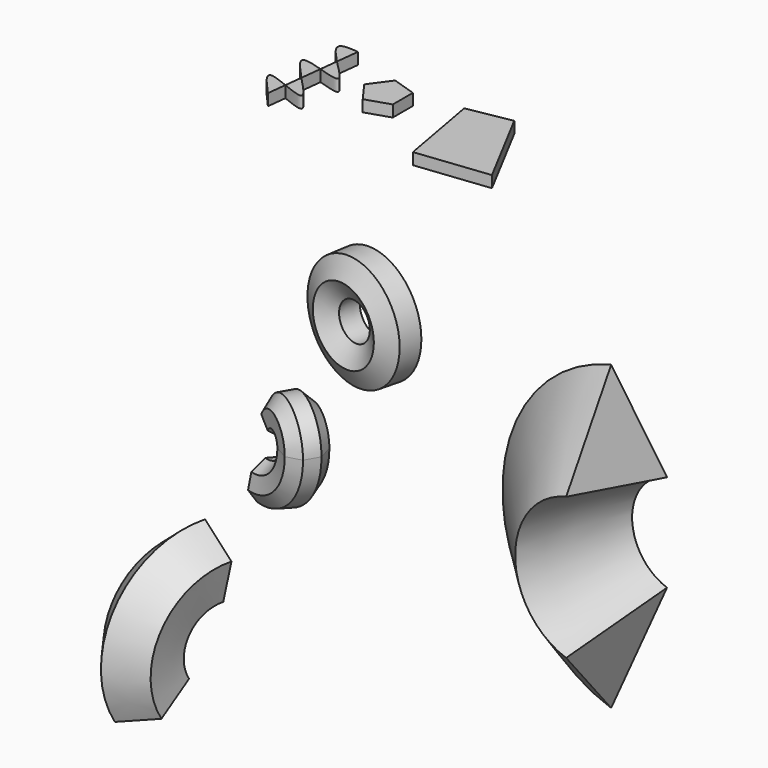
from build123d import *

# Parameters (mm, degrees)
F4_ANGLE       = 90
F5_R           = 14.6358419548
F6_ANGLE       = 90
F4_FACE_R      = 14.6358419548
F7_ANGLE       = 150
F9_ANGLE_BACK  = 75
F9_ANGLE       = 150
F11_ANGLE_BACK = 90
F11_ANGLE      = 120
F14_DEPTH      = 30


with BuildPart() as f2:
    # F0 (on Top) → F2 (revolve)
    with BuildSketch(Plane.XY):
        Polygon((41.1230984632, -38.3263548902), (53.753146201, 16.4504705063), (12.6300477378, 54.7768253966), (-41.1230984632, 38.3263548902), (-53.753146201, -16.4504705063), (-12.6300477378, -54.7768253966), align=None)
    revolve(axis=Axis((-101.0606586933, -4.8696771264, 0), (0.2003221404, 0.9797300853, 0)))


with BuildPart() as f4:
    # F3 (on Top) → F4 (revolve)
    with BuildSketch(Plane.XY):
        Polygon((197.4797659549, -547.2550534879), (217.4312359658, -512.1937847461), (206.7469948207, -473.2939041224), (171.6857260789, -453.3424341116), (132.7858454552, -464.0266752566), (112.8343754444, -499.0879439985), (123.5186165894, -537.9878246221), (158.5798853313, -557.939294633), align=None)
    revolve(axis=Axis((33.4474323317, -502.6533901691, 0), (0.3127058951, 0.9498500004, 0)), revolution_arc=F4_ANGLE)

    # F5 (on face) → F6 (revolve, cut)
    with BuildSketch(Plane.XY):
        with Locations((161.7156416178, -498.3035624027)):
            Circle(F5_R)
    revolve(axis=Axis((2.8462186456, -532.4731618166, 0), (0.3901119624, 0.9207674282, 0)), revolution_arc=F6_ANGLE, mode=Mode.SUBTRACT)

    # F4_face (on face) → F7 (revolve)
    with BuildSketch(Plane(origin=(165.1328057051, -505.6408643723, 0), x_dir=(1, 0, 0), z_dir=(0, 0, 1))):
        Polygon((-6.5529203738, -52.2984302607), (32.3469602499, -41.6141891156), (52.2984302607, -6.5529203738), (41.6141891156, 32.3469602499), (6.5529203738, 52.2984302607), (-32.3469602499, 41.6141891156), (-52.2984302607, 6.5529203738), (-41.6141891156, -32.3469602499), align=None)
        with Locations((-3.4171640873, 7.3373019695)):
            Circle(F4_FACE_R, mode=Mode.SUBTRACT)
    revolve(axis=Axis((122.8101104498, -481.5573096275, 0), (-0.4945770036, -0.8691338145, 0)), revolution_arc=F7_ANGLE)


with BuildPart() as f9:
    # F8 (on Top) → F9 (revolve)
    with BuildSketch(Plane.XY, mode=Mode.PRIVATE) as f9_sk:
        Polygon((794.2860190573, -604.9314438156), (875.3789599237, -326.8226088234), (593.9831733704, -395.6484794617), align=None)
    revolve(f9_sk.sketch.rotate(Axis((999.4233250618, -417.9402664304, 0), (0.0747248131, 0.9972041929, 0)), -F9_ANGLE_BACK), axis=Axis((999.4233250618, -417.9402664304, 0), (0.0747248131, 0.9972041929, 0)), revolution_arc=F9_ANGLE)


with BuildPart() as f11:
    # F10 (on Top) → F11 (revolve)
    with BuildSketch(Plane.XY, mode=Mode.PRIVATE) as f11_sk:
        Polygon((553.4437894821, -1486.7327075837), (553.4437894821, -1379.1132110717), (451.091566044, -1345.8569577235), (387.8344131352, -1432.9229593277), (451.091566044, -1519.9889609319), align=None)
    revolve(f11_sk.sketch.rotate(Axis((527.5831520557, -1269.2239284515, 0), (0.965925812, -0.2588190985, 0)), -F11_ANGLE_BACK), axis=Axis((527.5831520557, -1269.2239284515, 0), (0.965925812, -0.2588190985, 0)), revolution_arc=F11_ANGLE)


with BuildPart() as f14:
    # F13 (on offset) → F14 (new body)
    with BuildSketch(Plane.XY.offset(500)):
        with BuildLine():
            Line((-217.7661401576, -33.5455555877), (-222.981637236, -78.9262926005))
            add(Edge.make_bspline(
                [(-222.981637236, -78.9262926005), (-196.5505352641, -89.4817884221), (-141.6766181094, -111.7122441999), (-192.3299561226, -60.2015441708), (-217.7661401576, -33.5455555877)],
                knots=[0.2218975102, 0.2218975102, 0.2218975102, 0.2218975102, 0.3112566363, 0.4047462295, 0.4047462295, 0.4047462295, 0.4047462295], degree=3))
        make_face()
    extrude(amount=F14_DEPTH)


with BuildPart() as f14b:
    # F13 (on offset) → F14, piece 2 (new body)
    with BuildSketch(Plane.XY.offset(500)):
        with BuildLine():
            add(Edge.make_bspline(
                [(-217.7661401576, -33.5455555877), (-243.8043538988, -6.2586666717), (-290.1264285124, 43.8113513039), (-235.981118483, 28.1504020808), (-211.5425076347, 20.6071026421)],
                knots=[0.4047462295, 0.4047462295, 0.4047462295, 0.4047462295, 0.5004485567, 0.5782308135, 0.5782308135, 0.5782308135, 0.5782308135], degree=3))
            Line((-217.7661401576, -33.5455555877), (-211.5425076347, 20.6071026421))
        make_face()
    extrude(amount=F14_DEPTH)


with BuildPart() as f14c:
    # F13 (on offset) → F14, piece 3 (new body)
    with BuildSketch(Plane.XY.offset(500)):
        with BuildLine():
            Line((-206.1866159048, 67.2094322784), (-211.5425076347, 20.6071026421))
            add(Edge.make_bspline(
                [(-211.5425076347, 20.6071026421), (-186.3334425436, 12.8259923437), (-130.1996552533, -5.6100716398), (-180.767739603, 41.371800285), (-206.1866159048, 67.2094322784)],
                knots=[0.5782308135, 0.5782308135, 0.5782308135, 0.5782308135, 0.658465242, 0.7556747426, 0.7556747426, 0.7556747426, 0.7556747426], degree=3))
        make_face()
    extrude(amount=F14_DEPTH)


with BuildPart() as f14d:
    # F13 (on offset) → F14, piece 4 (new body)
    with BuildSketch(Plane.XY.offset(500)):
        with BuildLine():
            add(Edge.make_bspline(
                [(-228.6804609973, -128.5125196666), (-261.3239550438, -93.8163487786), (-301.1803779267, -47.9576834287), (-243.0413046828, -70.9152858652), (-222.981637236, -78.9262926005)],
                knots=[0.0231356612, 0.0231356612, 0.0231356612, 0.0231356612, 0.1540791365, 0.2218975102, 0.2218975102, 0.2218975102, 0.2218975102], degree=3))
            Line((-228.6804609973, -128.5125196666), (-222.981637236, -78.9262926005))
        make_face()
    extrude(amount=F14_DEPTH)


with BuildPart() as f14e:
    # F13 (on offset) → F14, piece 5 (new body)
    with BuildSketch(Plane.XY.offset(500)):
        with BuildLine():
            add(Edge.make_bspline(
                [(-206.1866159048, 67.2094322784), (-228.0282713603, 89.4109115684), (-266.1057159013, 131.4926883625), (-220.4806079495, 129.6051543175), (-199.3421153564, 126.7643461625)],
                knots=[0.7556747426, 0.7556747426, 0.7556747426, 0.7556747426, 0.8392038646, 0.9134780452, 0.9134780452, 0.9134780452, 0.9134780452], degree=3))
            Line((-206.1866159048, 67.2094322784), (-199.3421153564, 126.7643461625))
        make_face()
    extrude(amount=F14_DEPTH)


with BuildPart() as f14f:
    # F13 (on offset) → F14, piece 6 (new body)
    with BuildSketch(Plane.XY.offset(500)):
        Polygon((0, -9.1613249574), (0, 55.9562461171), (-61.9304902957, 76.0786822116), (-100.2056382385, 23.3974605799), (-61.9304902957, -29.2837610518), align=None)
    extrude(amount=F14_DEPTH)


with BuildPart() as f14g:
    # F13 (on offset) → F14, piece 7 (new body)
    with BuildSketch(Plane.XY.offset(500)):
        Polygon((123.6441805959, 68.0656582117), (162.50743549, -146.9373577591), (350.7219277197, -125.8394022214), (237.144747892, 88.5816563597), align=None)
    extrude(amount=F14_DEPTH)


solid = Compound([f2.part, f4.part, f9.part, f11.part, f14.part, f14b.part, f14c.part, f14d.part, f14e.part, f14f.part, f14g.part])
